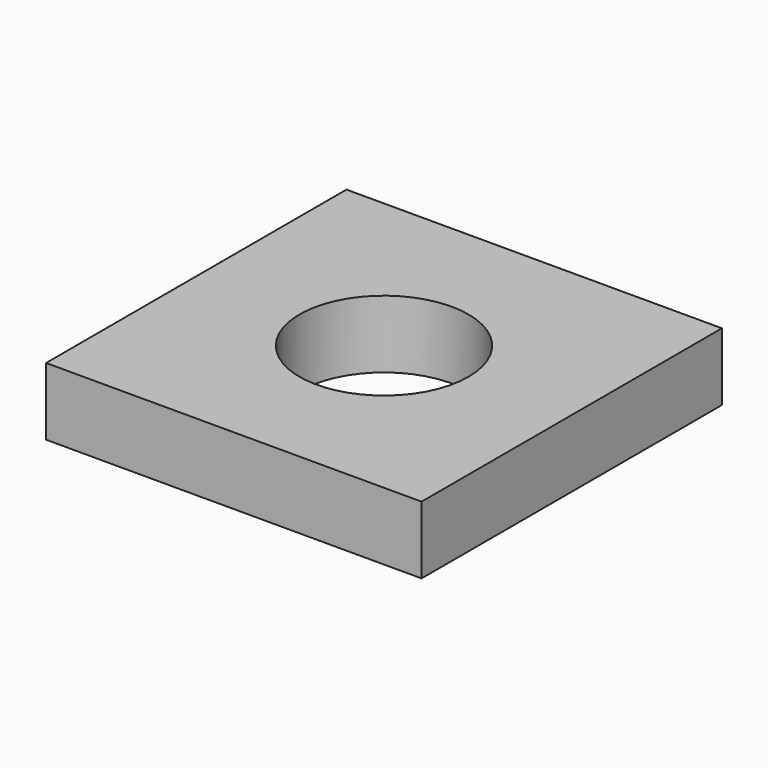
from build123d import *

# Parameters (mm, degrees)
SKETCH_W  = 10
SKETCH_H  = 10
SKETCH_R  = 2.25
PAD_DEPTH = 1.8


with BuildPart() as part:
    # Sketch → Pad (new body)
    with BuildSketch(Plane.XY):
        with Locations((5, -5)):
            Rectangle(SKETCH_W, SKETCH_H)
        with Locations((5, -5)):
            Circle(SKETCH_R, mode=Mode.SUBTRACT)
    extrude(amount=PAD_DEPTH)


solid = part.part
